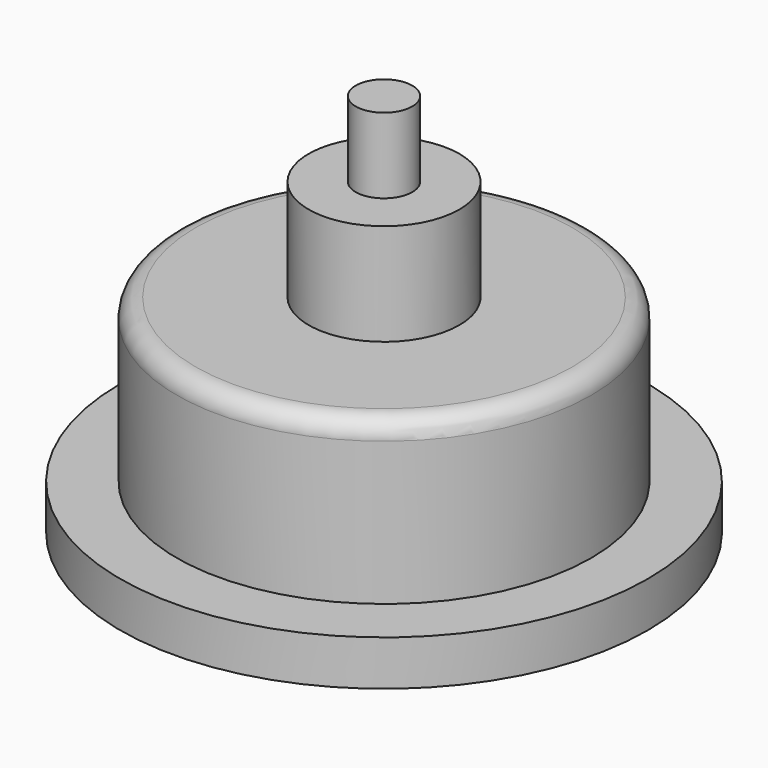
from build123d import *

# Parameters (mm, degrees)
F0_R          = 7
F0_R_2        = 5.5
F0_R_3        = 2
F0_R_4        = 0.75
F1_DEPTH      = 1.2
F2_DEPTH      = 7
F3_DEPTH      = 9
F3_DEPTH_BACK = 3
F4_DEPTH      = 4.3
F5_R          = 0.5
F6_R          = 3.925
F7_DEPTH      = 3.2


with BuildPart() as f1:
    # F0 (on Top) → F1 (new body)
    with BuildSketch(Plane.XY):
        Circle(F0_R)
        Circle(F0_R_2, mode=Mode.SUBTRACT)
        Circle(F0_R_2)
        Circle(F0_R_3, mode=Mode.SUBTRACT)
        Circle(F0_R_2)
        Circle(F0_R_3, mode=Mode.SUBTRACT)
        Circle(F0_R_3)
        Circle(F0_R_4, mode=Mode.SUBTRACT)
    extrude(amount=-F1_DEPTH)

    # F0 (on Top) → F2 (join)
    with BuildSketch(Plane.XY):
        Circle(F0_R_3)
        Circle(F0_R_4, mode=Mode.SUBTRACT)
    extrude(amount=F2_DEPTH)

    # F0 (on Top) → F4 (join)
    with BuildSketch(Plane.XY):
        Circle(F0_R_2)
        Circle(F0_R_3, mode=Mode.SUBTRACT)
        Circle(F0_R_2)
        Circle(F0_R_3, mode=Mode.SUBTRACT)
    extrude(amount=F4_DEPTH)

    # F5
    f5_edges = [f1.edges().sort_by_distance(p)[0] for p in [
        (-5.5, 0, 4.3),
    ]]
    fillet(f5_edges, radius=F5_R)

    # F6 (on face) → F7 (cut)
    with BuildSketch(Plane(origin=(0, 0, -1.2), x_dir=(1, 0, 0), z_dir=(0, 0, -1))):
        Circle(F6_R)
    extrude(amount=-F7_DEPTH, mode=Mode.SUBTRACT)


with BuildPart() as f3:
    # F0 (on Top) → F3 (new body, two sides)
    with BuildSketch(Plane.XY) as f3_sk:
        Circle(F0_R_4)
    extrude(amount=F3_DEPTH)
    extrude(f3_sk.sketch, amount=-F3_DEPTH_BACK)


solid = Compound([f1.part, f3.part])
